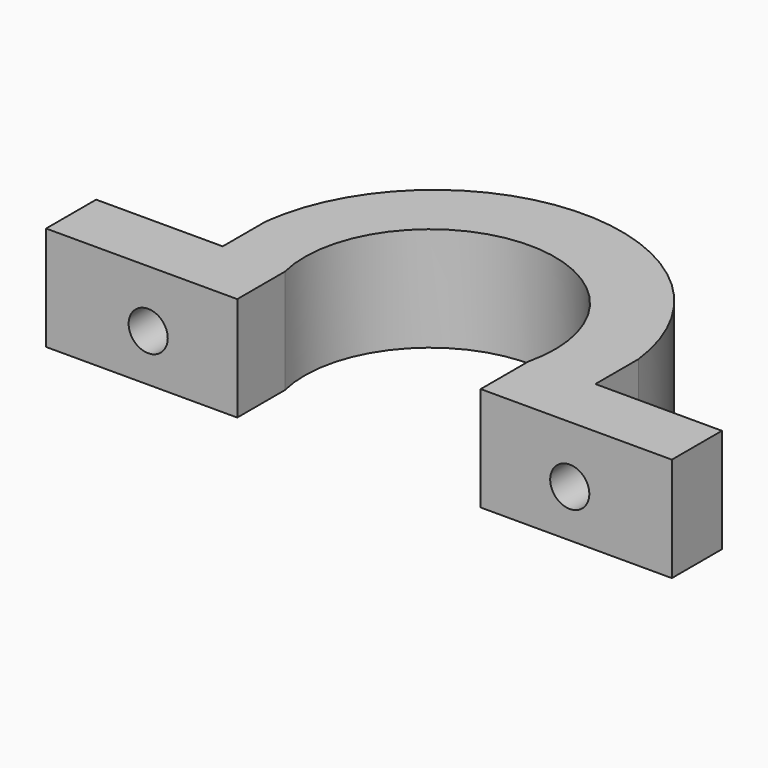
from build123d import *

# Parameters (mm, degrees)
F1_DEPTH = 10
F2_R     = 1.876476
F3_DEPTH = 6


with BuildPart() as f1:
    # F0 (on Top) → F1 (new body)
    with BuildSketch(Plane.XY):
        with BuildLine():
            ThreePointArc((17.866252, 11.169709), (0, 26.979497), (-17.866252, 11.169709))
            Line((-17.866252, 11.169709), (-17.866252, 6))
            Line((-17.866252, 6), (-30, 6))
            Line((-30, 6), (-30, 0))
            Line((-30, 0), (-11.670343, 0))
            Line((-11.670343, 0), (-11.670343, 5.692855))
            ThreePointArc((-11.670343, 5.692855), (0, 20.486258), (11.670343, 5.692855))
            Line((11.670343, 5.692855), (11.670343, 0))
            Line((11.670343, 0), (30, 0))
            Line((30, 0), (30, 6))
            Line((30, 6), (17.866252, 6))
            Line((17.866252, 6), (17.866252, 11.169709))
        make_face()
    extrude(amount=F1_DEPTH)

    # F2 (on Front) → F3 (cut)
    with BuildSketch(Plane.XZ):
        with Locations((-20.210268, 4.529888)):
            Circle(F2_R)
        with Locations((20.210268, 4.529888)):
            Circle(F2_R)
    extrude(amount=-F3_DEPTH, mode=Mode.SUBTRACT)


solid = f1.part
